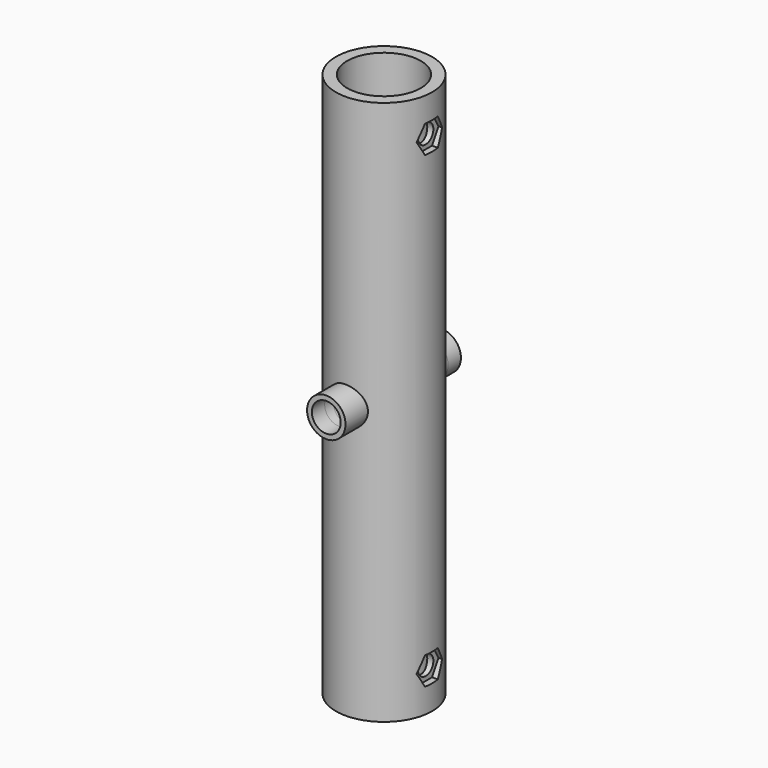
from build123d import *

# Parameters (mm, degrees)
F0_R           = 15
F0_R_2         = 11.5
F1_DEPTH       = 170
F2_R           = 4.5
F3_DEPTH       = 15.001
F3_DEPTH_BACK  = 15.001
F5_R           = 6
F5_R_2         = 4.5
F6_DEPTH       = 5
F6_DEPTH_BACK  = 4.7522730151
F8_R           = 6
F8_R_2         = 4.5
F9_DEPTH       = 5
F9_DEPTH_BACK  = 4.7522730151
F10_R          = 3
F11_DEPTH      = 15.0010001
F11_DEPTH_BACK = 15.0010001
F14_DEPTH      = 2
F16_R          = 5
F17_DEPTH      = 2


with BuildPart() as f1:
    # F0 (on Top) → F1 (new body)
    with BuildSketch(Plane.XY):
        Circle(F0_R)
        Circle(F0_R_2, mode=Mode.SUBTRACT)
    extrude(amount=F1_DEPTH)

    # F2 (on Front) → F3 (cut, two sides)
    with BuildSketch(Plane.XZ) as f3_sk:
        with Locations((0, 85)):
            Circle(F2_R)
    extrude(amount=-F3_DEPTH, mode=Mode.SUBTRACT)
    extrude(f3_sk.sketch, amount=F3_DEPTH_BACK, mode=Mode.SUBTRACT)

    # F5 (on offset) → F6 (join, two sides)
    with BuildSketch(Plane.XZ.offset(17.5)) as f6_sk:
        with Locations((0, 85)):
            Circle(F5_R)
        with Locations((0, 85)):
            Circle(F5_R_2, mode=Mode.SUBTRACT)
    extrude(amount=F6_DEPTH)
    extrude(f6_sk.sketch, amount=-F6_DEPTH_BACK)

    # F8 (on offset) → F9 (join, two sides)
    with BuildSketch(Plane.XZ.offset(-17.5)) as f9_sk:
        with Locations((0, 85)):
            Circle(F8_R)
        with Locations((0, 85)):
            Circle(F8_R_2, mode=Mode.SUBTRACT)
    extrude(amount=-F9_DEPTH)
    extrude(f9_sk.sketch, amount=F9_DEPTH_BACK)

    # F10 (on Right) → F11 (cut, two sides)
    with BuildSketch(Plane.YZ) as f11_sk:
        with Locations((0, 12)):
            Circle(F10_R)
        with Locations((0, 158)):
            Circle(F10_R)
    extrude(amount=-F11_DEPTH, mode=Mode.SUBTRACT)
    extrude(f11_sk.sketch, amount=F11_DEPTH_BACK, mode=Mode.SUBTRACT)

    # F13 (on offset) → F14 (cut)
    with BuildSketch(Plane.YZ.offset(15)):
        Polygon((-2.5, 162.3301270189), (-5, 158), (-2.5, 153.6698729811), (2.5, 153.6698729811), (5, 158), (2.5, 162.3301270189), align=None)
        Polygon((5, 12), (2.5, 16.3301270189), (-2.5, 16.3301270189), (-5, 12), (-2.5, 7.6698729811), (2.5, 7.6698729811), align=None)
    extrude(amount=-F14_DEPTH, mode=Mode.SUBTRACT)

    # F16 (on offset) → F17 (cut)
    with BuildSketch(Plane.YZ.offset(-15)):
        with Locations((0, 158)):
            Circle(F16_R)
        with Locations((0, 12)):
            Circle(F16_R)
    extrude(amount=F17_DEPTH, mode=Mode.SUBTRACT)


solid = f1.part
